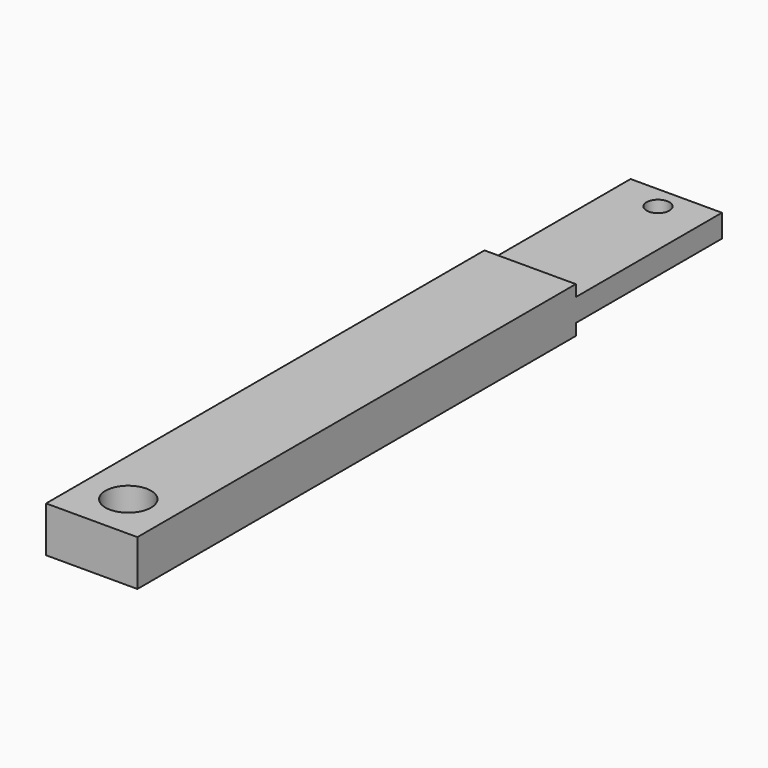
from build123d import *

# Parameters (mm, degrees)
F0_W     = 12.7
F0_H     = 6.35
F1_DEPTH = 101.6
F2_R     = 1.5875
F2_R_2   = 3.175
F3_DEPTH = 6.351
F4_W     = 12.7
F4_H     = 1.5875
F5_DEPTH = 25.4


with BuildPart() as f1:
    # F0 (on Front) → F1 (new body)
    with BuildSketch(Plane.XZ):
        with Locations((6.35, 3.175)):
            Rectangle(F0_W, F0_H)
    extrude(amount=-F1_DEPTH)

    # F2 (on face) → F3 (cut, through all)
    with BuildSketch(Plane.XY.offset(6.35)):
        with Locations((6.35, 98.425)):
            Circle(F2_R)
        with Locations((6.35, 6.35)):
            Circle(F2_R_2)
    extrude(amount=-F3_DEPTH, mode=Mode.SUBTRACT)

    # F4 (on face) → F5 (cut)
    with BuildSketch(Plane(origin=(0, 101.6, 0), x_dir=(-1, 0, 0), z_dir=(0, 1, 0))):
        with Locations((-6.35, 5.55625)):
            Rectangle(F4_W, F4_H)
        with Locations((-6.35, 0.79375)):
            Rectangle(F4_W, F4_H)
    extrude(amount=-F5_DEPTH, mode=Mode.SUBTRACT)


solid = f1.part
